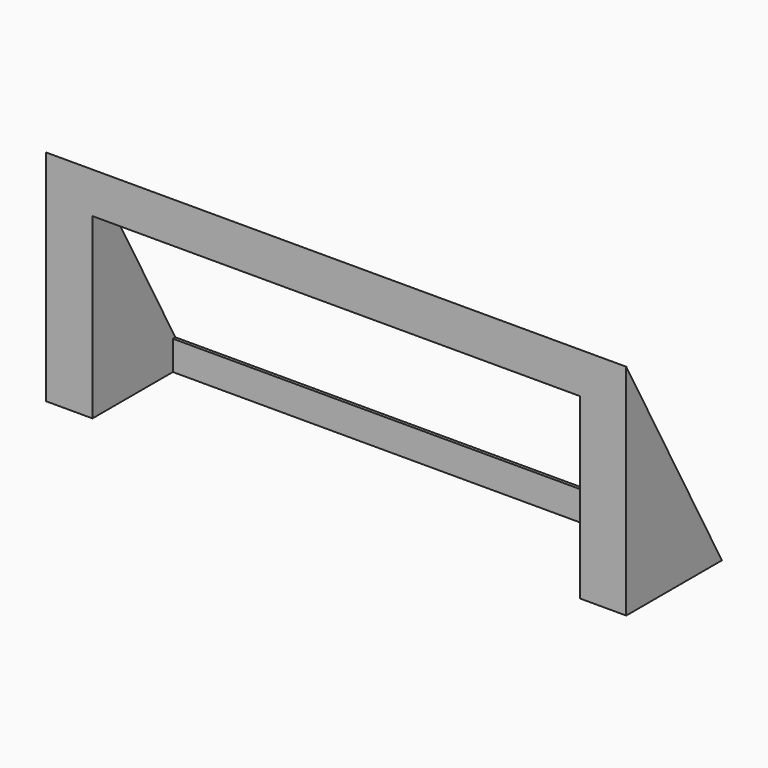
from build123d import *

# Parameters (mm, degrees)
F1_DEPTH = 25
F2_W     = 101.8614172935
F2_H     = 6.1345109716
F3_DEPTH = 4
F5_DEPTH = 500


with BuildPart() as f1:
    # F0 (on Front) → F1 (new body)
    with BuildSketch(Plane.XZ):
        Polygon((-62.6290813088, 45.7948409021), (-62.6290813088, 0), (-52.927993238, 0), (-52.927993238, 37.2350551188), (48.9334240556, 37.2350551188), (48.9334240556, 0), (58.6345121264, 0), (58.6345121264, 45.7948409021), align=None)
    extrude(amount=-F1_DEPTH)

    # F2 (on face) → F3 (join)
    with BuildSketch(Plane(origin=(0, 25, 0), x_dir=(-1, 0, 0), z_dir=(0, 1, 0))):
        with Locations((1.9972845912, 3.0672554858)):
            Rectangle(F2_W, F2_H)
    extrude(amount=-F3_DEPTH)

    # F4 (on face) → F5 (cut)
    with BuildSketch(Plane(origin=(-62.6290813088, 0, 0), x_dir=(0, -1, 0), z_dir=(-1, 0, 0))):
        Polygon((-25, 0), (0, 45.7948409021), (-25, 45.7948409021), align=None)
    extrude(amount=-F5_DEPTH, mode=Mode.SUBTRACT)


solid = f1.part
